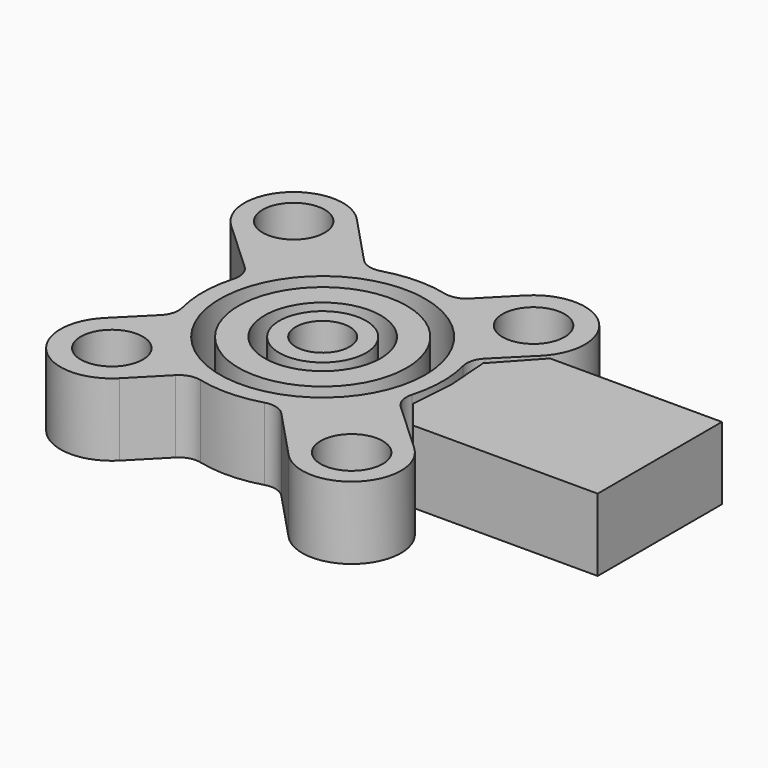
from build123d import *

# Parameters (mm, degrees)
SKETCH001_R             = 4.958328
SKETCH001_R_2           = 1.5
SKETCH001_R_3           = 4.05855
SKETCH001_R_4           = 2.802528
SKETCH001_R_5           = 2.095874
SKETCH001_R_6           = 1.301286
EXTRUDE_DEPTH           = 3.5
EXTRUDE_PLACEMENT_ANGLE = 180


with BuildPart() as part:
    # Sketch001 → Extrude (new body)
    with BuildSketch(Plane.XY):
        with BuildLine():
            ThreePointArc((8.366924, 4.936506), (8.441586, 8.36515), (5.012404, 8.321677))
            Line((2.680297, 5.845762), (5.012404, 8.321677))
            ThreePointArc((1.638648, 5.563707), (2.199329, 5.557542), (2.680297, 5.845762))
            ThreePointArc((1.638648, 5.563707), (0.125732, 5.798637), (-1.395946, 5.629506))
            ThreePointArc((-2.379545, 5.90775), (-1.924662, 5.638128), (-1.395946, 5.629506))
            Line((-3.863349, 7.418599), (-2.379545, 5.90775))
            ThreePointArc((-3.863349, 7.418599), (-7.375053, 7.442442), (-7.383153, 3.930667))
            Line((-5.885862, 2.433181), (-7.383153, 3.930667))
            ThreePointArc((-5.616576, 1.447093), (-5.620389, 1.975865), (-5.885862, 2.433181))
            ThreePointArc((-5.616576, 1.447093), (-5.799541, -0.072984), (-5.578381, -1.587975))
            ThreePointArc((-5.869899, -2.627015), (-5.577316, -2.148689), (-5.578381, -1.587975))
            Line((-5.869899, -2.627015), (-8.366924, -4.936506))
            ThreePointArc((-8.366924, -4.936506), (-8.441586, -8.36515), (-5.012404, -8.321677))
            Line((-2.680297, -5.845762), (-5.012404, -8.321677))
            ThreePointArc((-1.638648, -5.563707), (-2.199329, -5.557542), (-2.680297, -5.845762))
            ThreePointArc((-1.638648, -5.563707), (-0.125732, -5.798637), (1.395946, -5.629506))
            ThreePointArc((2.379545, -5.90775), (1.924662, -5.638128), (1.395946, -5.629506))
            Line((2.379545, -5.90775), (3.863349, -7.418599))
            ThreePointArc((3.863349, -7.418599), (7.375053, -7.442442), (7.383153, -3.930667))
            Line((7.383153, -3.930667), (5.885862, -2.433181))
            ThreePointArc((5.616576, -1.447093), (5.620389, -1.975865), (5.885862, -2.433181))
            ThreePointArc((5.616576, -1.447093), (5.799541, 0.072984), (5.578381, 1.587975))
            ThreePointArc((5.869899, 2.627015), (5.577316, 2.148689), (5.578381, 1.587975))
            Line((5.869899, 2.627015), (8.366924, 4.936506))
        make_face()
        Circle(SKETCH001_R, mode=Mode.SUBTRACT)
        with Locations((6.747995, 6.686895)):
            Circle(SKETCH001_R_2, mode=Mode.SUBTRACT)
        with Locations((-5.631069, 5.682522)):
            Circle(SKETCH001_R_2, mode=Mode.SUBTRACT)
        with Locations((-6.747995, -6.686895)):
            Circle(SKETCH001_R_2, mode=Mode.SUBTRACT)
        with Locations((5.631069, -5.682522)):
            Circle(SKETCH001_R_2, mode=Mode.SUBTRACT)
        Polygon((16.088053, -3.976689), (16.088053, 3.52014), (7.183914, 3.52014), (6.072395, 2.14391), (6.225872, 0), (6.064379, -2.093428), (7.794163, -3.976689), align=None)
        Circle(SKETCH001_R_3)
        Circle(SKETCH001_R_4, mode=Mode.SUBTRACT)
        Circle(SKETCH001_R_5)
        Circle(SKETCH001_R_6, mode=Mode.SUBTRACT)
    extrude(amount=EXTRUDE_DEPTH)


with BuildPart() as part_1:
    # Extrude placement: moved
    add(part.part.moved(Location((0, 0, 3.5))).rotate(Axis((0, 0, 3.5), (1, 0, 0)), EXTRUDE_PLACEMENT_ANGLE))


solid = part_1.part
